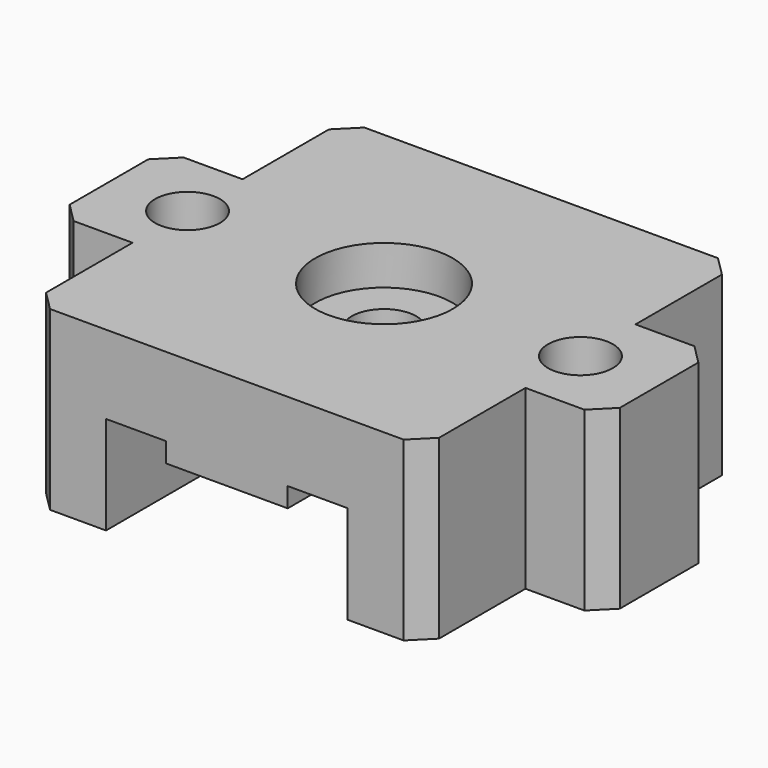
from build123d import *

# Parameters (mm, degrees)
CYLINDER026_R         = 3.5
CYLINDER026_DEPTH     = 2
CYLINDER025_R         = 1.65
CYLINDER025_DEPTH     = 18
CYLINDER023_R         = 1.65
CYLINDER023_DEPTH     = 18
CYLINDER024_R         = 1.65
CYLINDER024_DEPTH     = 18
BOX049_W              = 3.05
BOX049_H              = 5
BOX049_DEPTH          = 10
BOX050_W              = 3.05
BOX050_H              = 5
BOX050_DEPTH          = 10
BOX051_W              = 3.05
BOX051_H              = 5
BOX051_DEPTH          = 10
BOX048_W              = 3.05
BOX048_H              = 5
BOX048_DEPTH          = 10
CHAMFER004013004_SIZE = 1
BOX044_W              = 12.3
BOX044_H              = 20
BOX044_DEPTH          = 7
BOX046_W              = 28
BOX046_H              = 7
BOX046_DEPTH          = 9
BOX047_W              = 12.3
BOX047_H              = 20
BOX047_DEPTH          = 7
BOX045_W              = 20
BOX045_H              = 20
BOX045_DEPTH          = 9
CHAMFER004013007_SIZE = 1


with BuildPart() as cylinder026:
    # Cylinder026 → Cylinder026 (new body)
    with BuildSketch(Plane.XY.offset(10)):
        Circle(CYLINDER026_R)
    extrude(amount=CYLINDER026_DEPTH)


with BuildPart() as cylinder025:
    # Cylinder025 → Cylinder025 (new body)
    with BuildSketch(Plane(origin=(10, 0, 0), x_dir=(1, 0, 0), z_dir=(0, 0, 1))):
        Circle(CYLINDER025_R)
    extrude(amount=CYLINDER025_DEPTH)


with BuildPart() as cylinder023:
    # Cylinder023 → Cylinder023 (new body)
    with BuildSketch(Plane.XY):
        Circle(CYLINDER023_R)
    extrude(amount=CYLINDER023_DEPTH)


with BuildPart() as fusion001007005020:
    # Cylinder024 → Cylinder024 (new body)
    with BuildSketch(Plane(origin=(-10, 0, 0), x_dir=(1, 0, 0), z_dir=(0, 0, 1))):
        Circle(CYLINDER024_R)
    extrude(amount=CYLINDER024_DEPTH)

    # Fusion001007005014: union Cylinder025, Cylinder023
    add(cylinder025.part)
    add(cylinder023.part)

    # Fusion001007005020: union Cylinder026
    add(cylinder026.part)


with BuildPart() as cube048:
    # Box049 → Box049 (new body)
    with BuildSketch(Plane(origin=(3.1, -10, 0), x_dir=(1, 0, 0), z_dir=(0, 0, 1))):
        with Locations((1.525, 2.5)):
            Rectangle(BOX049_W, BOX049_H)
    extrude(amount=BOX049_DEPTH)


with BuildPart() as cube049:
    # Box050 → Box050 (new body)
    with BuildSketch(Plane(origin=(3.1, 5, 0), x_dir=(1, 0, 0), z_dir=(0, 0, 1))):
        with Locations((1.525, 2.5)):
            Rectangle(BOX050_W, BOX050_H)
    extrude(amount=BOX050_DEPTH)


with BuildPart() as cube050:
    # Box051 → Box051 (new body)
    with BuildSketch(Plane(origin=(-6.15, 5, 0), x_dir=(1, 0, 0), z_dir=(0, 0, 1))):
        with Locations((1.525, 2.5)):
            Rectangle(BOX051_W, BOX051_H)
    extrude(amount=BOX051_DEPTH)


with BuildPart() as chamfer004013004:
    # Box048 → Box048 (new body)
    with BuildSketch(Plane(origin=(-6.15, -10, 0), x_dir=(1, 0, 0), z_dir=(0, 0, 1))):
        with Locations((1.525, 2.5)):
            Rectangle(BOX048_W, BOX048_H)
    extrude(amount=BOX048_DEPTH)

    # Fusion001007005016: union Cube048, Cube049, Cube050
    add(cube048.part)
    add(cube049.part)
    add(cube050.part)

    # Chamfer004013004
    chamfer004013004_edges = [chamfer004013004.edges().sort_by_distance(p)[0] for p in [
        (-4.625, -5, 10),
        (4.625, -5, 10),
        (4.625, 5, 10),
        (-4.625, 5, 10),
    ]]
    chamfer(chamfer004013004_edges, length=CHAMFER004013004_SIZE)


with BuildPart() as chamfer004013004_1:
    # Chamfer004013004 placement: moved
    add(chamfer004013004.part.moved(Location((0, 0, -2))))


with BuildPart() as cube043:
    # Box044 → Box044 (new body)
    with BuildSketch(Plane(origin=(-6.15, -10, 0), x_dir=(1, 0, 0), z_dir=(0, 0, 1))):
        with Locations((6.15, 10)):
            Rectangle(BOX044_W, BOX044_H)
    extrude(amount=BOX044_DEPTH)


with BuildPart() as cut028002:
    # Box046 → Box046 (new body)
    with BuildSketch(Plane(origin=(-14, -3.5, 3), x_dir=(1, 0, 0), z_dir=(0, 0, 1))):
        with Locations((14, 3.5)):
            Rectangle(BOX046_W, BOX046_H)
    extrude(amount=BOX046_DEPTH)

    # Cut028002: cut Cube043
    add(cube043.part, mode=Mode.SUBTRACT)


with BuildPart() as cube046:
    # Box047 → Box047 (new body)
    with BuildSketch(Plane(origin=(-6.15, -10, 0), x_dir=(1, 0, 0), z_dir=(0, 0, 1))):
        with Locations((6.15, 10)):
            Rectangle(BOX047_W, BOX047_H)
    extrude(amount=BOX047_DEPTH)


with BuildPart() as belt_connector:
    # Box045 → Box045 (new body)
    with BuildSketch(Plane(origin=(-10, -10, 3), x_dir=(1, 0, 0), z_dir=(0, 0, 1))):
        with Locations((10, 10)):
            Rectangle(BOX045_W, BOX045_H)
    extrude(amount=BOX045_DEPTH)

    # Cut024: cut Cube046
    add(cube046.part, mode=Mode.SUBTRACT)

    # Fusion001007005019: union Cut028002
    add(cut028002.part)

    # Cut028003: cut Chamfer004013004
    add(chamfer004013004_1.part, mode=Mode.SUBTRACT)

    # Cut028004: cut Fusion001007005020
    add(fusion001007005020.part, mode=Mode.SUBTRACT)

    # Chamfer004013007
    chamfer004013007_edges = [belt_connector.edges().sort_by_distance(p)[0] for p in [
        (-10, -10, 7.5),
        (-14, -3.5, 7.5),
        (10, -10, 7.5),
        (-14, 3.5, 7.5),
        (14, -3.5, 7.5),
        (-10, 10, 7.5),
        (10, 10, 7.5),
        (14, 3.5, 7.5),
    ]]
    chamfer(chamfer004013007_edges, length=CHAMFER004013007_SIZE)


solid = belt_connector.part
